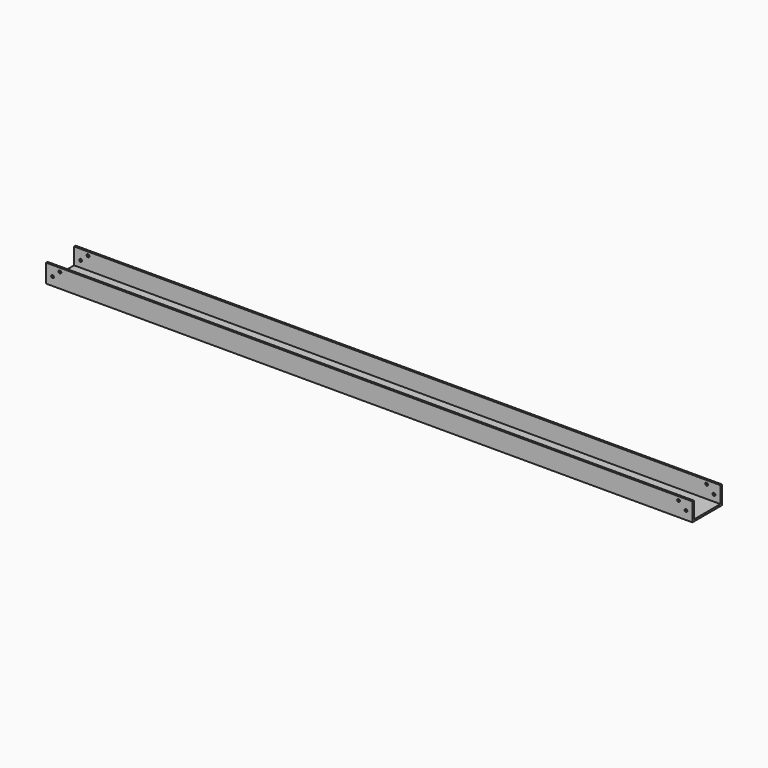
from build123d import *

# Parameters (mm, degrees)
F1_DEPTH      = 350
F1_DEPTH_BACK = 350
F3_D          = 3
F3_DEPTH      = 50
F3_TIP        = 0.9012909285
F4_D          = 3
F4_DEPTH      = 50
F4_START      = 36
F4_TIP        = 0.9012909285


with BuildPart() as f1:
    # F0 (on Right) → F1 (new body, two sides)
    with BuildSketch(Plane.YZ) as f1_sk:
        Polygon((-20, 20), (-20, 0), (20, 0), (20, 20), (18, 20), (18, 2), (-18, 2), (-18, 20), align=None)
    extrude(amount=F1_DEPTH)
    extrude(f1_sk.sketch, amount=-F1_DEPTH_BACK)

    # F3 (one way)
    with BuildSketch(Plane(origin=(0, -18, 0), x_dir=(-1, 0, 0), z_dir=(0, 1, 0))):
        with Locations((-343, 9), (343, 9), (335, 16), (-335, 16)):
            Circle(F3_D / 2)
    extrude(amount=-F3_DEPTH, mode=Mode.SUBTRACT)
    with Locations(Plane(origin=(0, -18, 0), x_dir=(-1, 0, 0), z_dir=(0, 1, 0))):
        with Locations((-343, 9), (343, 9), (335, 16), (-335, 16)):
            with Locations((0, 0, -(F3_DEPTH + F3_TIP / 2))):  # 118° drill point
                Cone(0, F3_D / 2, F3_TIP, mode=Mode.SUBTRACT)

    # F4
    # its depths count from where the whole tool has entered the part; down to there all is cleared
    with Locations(Plane(origin=(0, -18, 0), x_dir=(-1, 0, 0), z_dir=(0, -1, 0)).offset(-F4_START)):
        with Locations((-343, -9), (343, -9), (-335, -16), (335, -16)):
            Hole(F4_D / 2, depth=F4_DEPTH)
            with Locations((0, 0, -(F4_DEPTH + F4_TIP / 2))):  # 118° drill point
                Cone(0, F4_D / 2, F4_TIP, mode=Mode.SUBTRACT)


solid = f1.part
